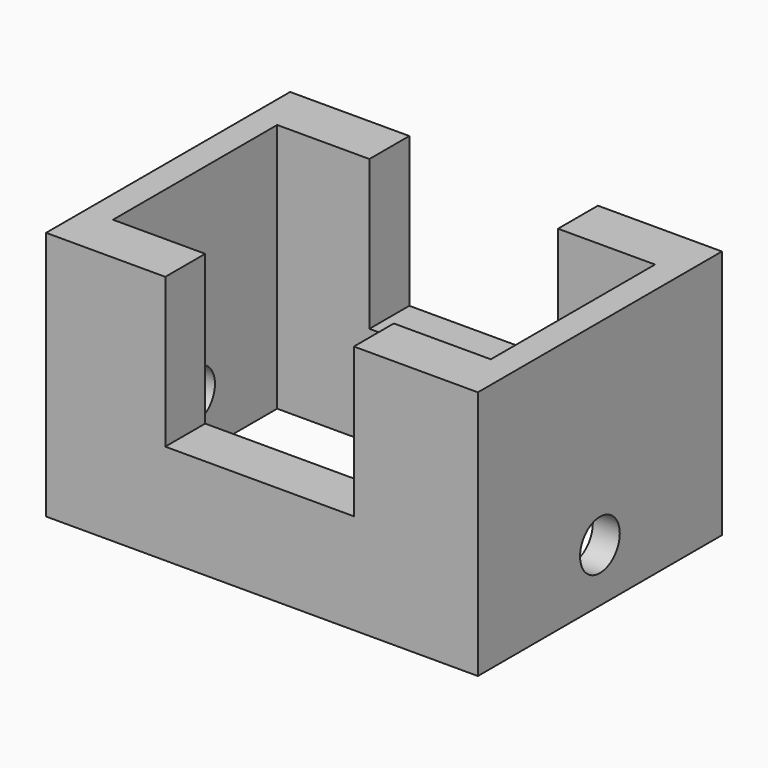
from build123d import *

# Parameters (mm, degrees)
F0_W     = 109.774076
F0_H     = 77.548884
F1_DEPTH = 63.5
F2_W     = 96.05325
F2_H     = 52.179004
F3_DEPTH = 63.5
F4_W     = 81.802986
F4_H     = 63.615836
F5_DEPTH = 63.5
F6_W     = 47.944924
F6_H     = 38.00063
F7_DEPTH = 101.6
F8_R     = 6.312248
F9_DEPTH = 254


with BuildPart() as f1:
    # F0 (on Top) → F1 (new body)
    with BuildSketch(Plane.XY):
        Rectangle(F0_W, F0_H)
    extrude(amount=F1_DEPTH)

    # F2 (on Top) → F3 (cut)
    with BuildSketch(Plane.XY):
        Rectangle(F2_W, F2_H)
    extrude(amount=F3_DEPTH, mode=Mode.SUBTRACT)

    # F4 (on Top) → F5 (cut)
    with BuildSketch(Plane.XY):
        Rectangle(F4_W, F4_H)
    extrude(amount=-F5_DEPTH, mode=Mode.SUBTRACT)

    # F6 (on face) → F7 (cut)
    with BuildSketch(Plane.XZ.offset(38.774442)):
        with Locations((-0.610764, 44.499685)):
            Rectangle(F6_W, F6_H)
    extrude(amount=-F7_DEPTH, mode=Mode.SUBTRACT)

    # F8 (on face) → F9 (cut)
    with BuildSketch(Plane.YZ.offset(54.887038)):
        with Locations((0, 13.589485)):
            Circle(F8_R)
    extrude(amount=-F9_DEPTH, mode=Mode.SUBTRACT)


solid = f1.part
